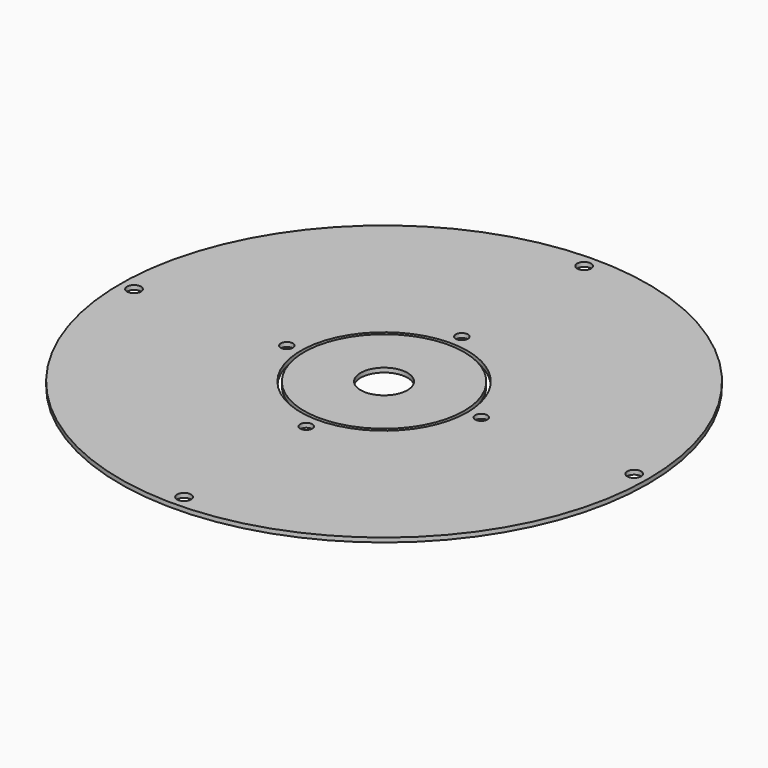
from build123d import *

# Parameters (mm, degrees)
F0_R     = 120.65
F0_R_2   = 3.175
F0_R_3   = 2.778125
F0_R_4   = 38.1
F0_R_5   = 36.5125
F0_R_6   = 10.715625
F1_DEPTH = 1.98374


with BuildPart() as f1:
    # F0 (on Top) → F1 (new body)
    with BuildSketch(Plane.XY):
        Circle(F0_R)
        with Locations((0, -114.3)):
            Circle(F0_R_2, mode=Mode.SUBTRACT)
        with Locations((0, -44.45)):
            Circle(F0_R_3, mode=Mode.SUBTRACT)
        with Locations((-114.3, 0)):
            Circle(F0_R_2, mode=Mode.SUBTRACT)
        with Locations((-44.45, 0)):
            Circle(F0_R_3, mode=Mode.SUBTRACT)
        Circle(F0_R_4, mode=Mode.SUBTRACT)
        with Locations((44.45, 0)):
            Circle(F0_R_3, mode=Mode.SUBTRACT)
        with Locations((0, 44.45)):
            Circle(F0_R_3, mode=Mode.SUBTRACT)
        with Locations((114.3, 0)):
            Circle(F0_R_2, mode=Mode.SUBTRACT)
        with Locations((0, 114.3)):
            Circle(F0_R_2, mode=Mode.SUBTRACT)
        Circle(F0_R_5)
        Circle(F0_R_6, mode=Mode.SUBTRACT)
    extrude(amount=F1_DEPTH)


solid = f1.part
